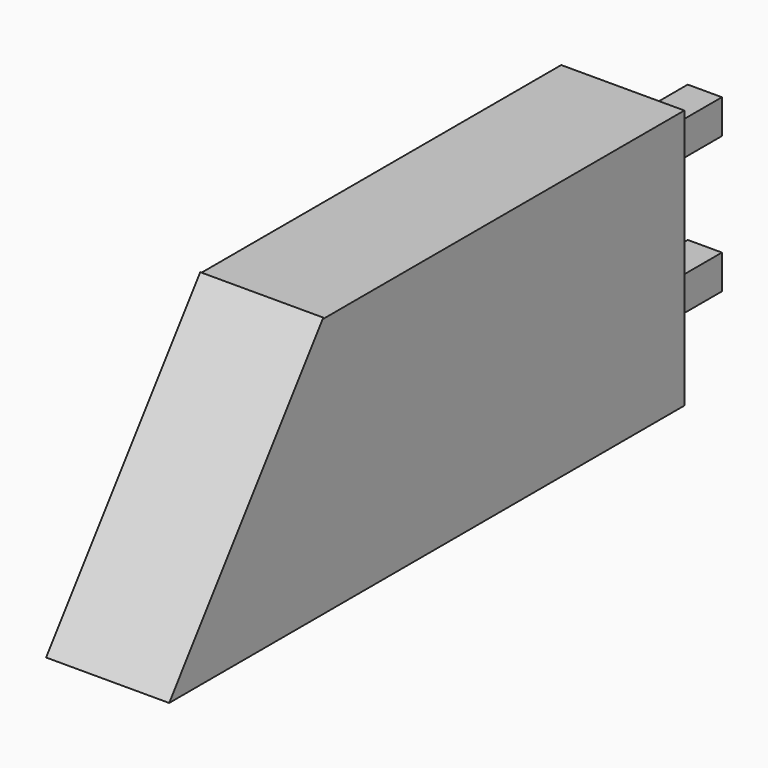
from build123d import *

# Parameters (mm, degrees)
F0_W     = 22.86
F0_H     = 83.82
F1_DEPTH = 48.26
F3_DEPTH = 19.05
F5_DEPTH = 22.86


with BuildPart() as f1:
    # F0 (on Top) → F1 (new body)
    with BuildSketch(Plane.XY):
        with Locations((11.43, 41.91)):
            Rectangle(F0_W, F0_H)
    extrude(amount=F1_DEPTH)

    # F2 (on face) → F3 (join)
    with BuildSketch(Plane(origin=(0, 83.82, 0), x_dir=(-1, 0, 0), z_dir=(0, 1, 0))):
        Polygon((-8.255, 40.005), (-11.43, 40.005), (-11.43, 36.83), (-11.43, 33.655), (-8.255, 33.655), align=None)
        Polygon((-8.255, 14.605), (-11.43, 14.605), (-14.605, 14.605), (-14.605, 8.255), (-8.255, 8.255), align=None)
        Polygon((-11.43, 36.83), (-11.43, 40.005), (-14.605, 40.005), (-14.605, 33.655), (-11.43, 33.655), align=None)
    extrude(amount=F3_DEPTH)

    # F4 (on Right) → F5 (join)
    with BuildSketch(Plane.YZ):
        Polygon((-35.780966, 0), (0, 0), (0, 48.468489), align=None)
    extrude(amount=F5_DEPTH)


solid = f1.part
